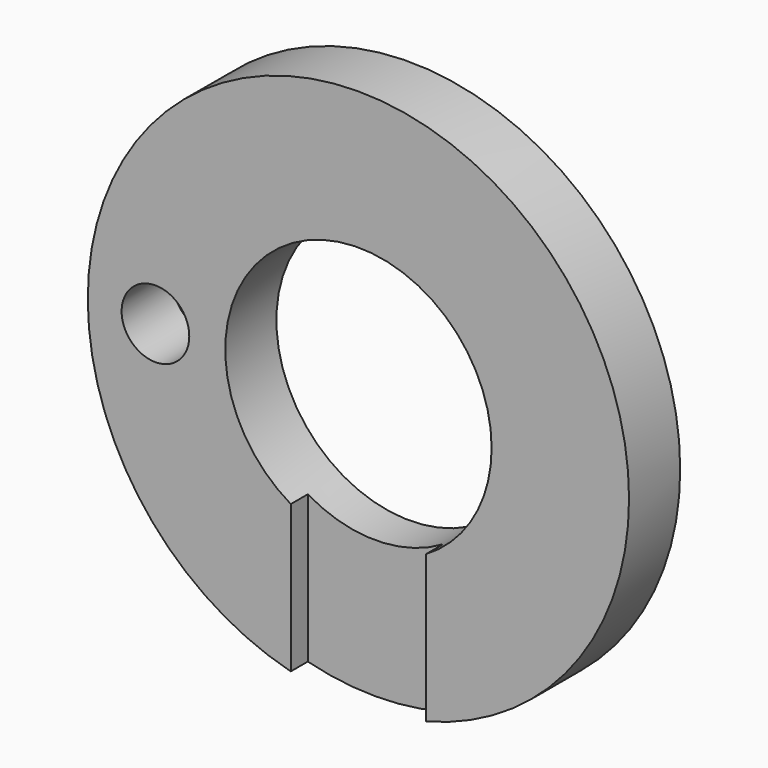
from build123d import *

# Parameters (mm, degrees)
F0_R     = 25.4
F0_R_2   = 12.5
F1_DEPTH = 6
F3_DEPTH = 2
F4_R     = 3.175
F5_DEPTH = 6.001


with BuildPart() as f1:
    # F0 (on Front) → F1 (new body)
    with BuildSketch(Plane.XZ):
        Circle(F0_R)
        Circle(F0_R_2, mode=Mode.SUBTRACT)
    extrude(amount=F1_DEPTH)

    # F2 (on face) → F3 (cut)
    with BuildSketch(Plane.XZ.offset(6)):
        with BuildLine():
            ThreePointArc((-6.35, -24.5934442484), (0, -25.4), (6.35, -24.5934442484))
            Line((6.35, -24.5934442484), (6.35, -10.7669633602))
            ThreePointArc((6.35, -10.7669633602), (0, -12.5), (-6.35, -10.7669633602))
            Line((-6.35, -10.7669633602), (-6.35, -24.5934442484))
        make_face()
    extrude(amount=-F3_DEPTH, mode=Mode.SUBTRACT)

    # F4 (on face) → F5 (cut, through all)
    with BuildSketch(Plane.XZ.offset(6)):
        with Locations((-19.05, 0)):
            Circle(F4_R)
    extrude(amount=-F5_DEPTH, mode=Mode.SUBTRACT)


solid = f1.part
